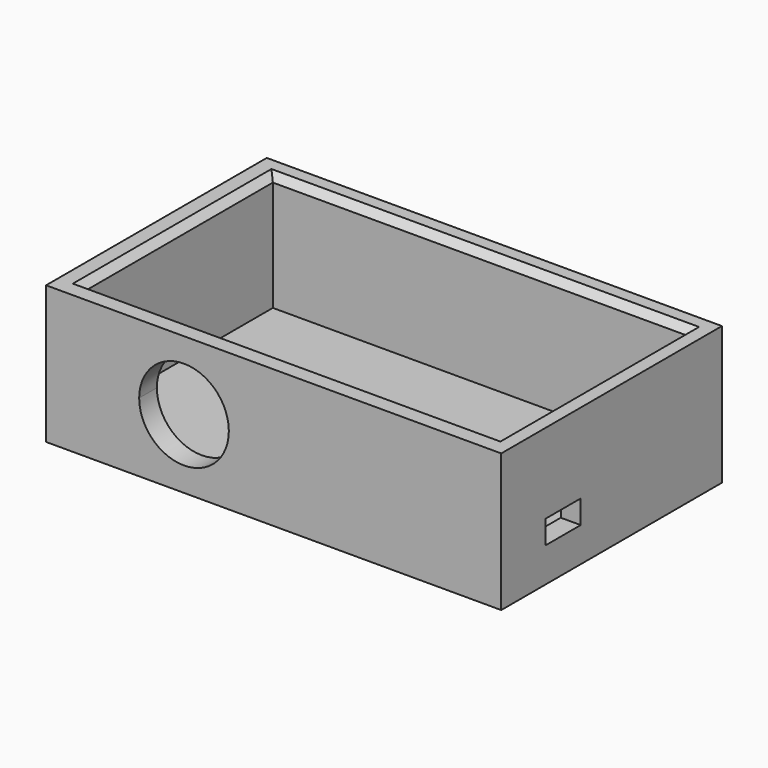
from build123d import *

# Parameters (mm, degrees)
F0_W      = 83.82
F0_H      = 50.8
F1_DEPTH  = 3.81
F2_W      = 83.82
F2_H      = 50.8
F2_W_2    = 76.2
F2_H_2    = 43.18
F3_DEPTH  = 21.59
F5_DEPTH  = 5.08
F7_DEPTH  = 25.4
F8_SIZE2  = 1.27
F8_SIZE   = 1.27
F9_W      = 8.128
F9_H      = 4.318
F10_DEPTH = 25.4


with BuildPart() as f1:
    # F0 (on Top) → F1 (new body)
    with BuildSketch(Plane.XY):
        with Locations((0.872821, -2.059813)):
            Rectangle(F0_W, F0_H)
    extrude(amount=F1_DEPTH)

    # F2 (on face) → F3 (join)
    with BuildSketch(Plane.XY.offset(3.81)):
        with Locations((0.872821, -2.059813)):
            Rectangle(F2_W, F2_H)
        with Locations((1.016111, -1.792254)):
            Rectangle(F2_W_2, F2_H_2, mode=Mode.SUBTRACT)
    extrude(amount=F3_DEPTH)

    # F4 (on face) → F5 (cut)
    with BuildSketch(Plane.XZ.offset(27.459813)):
        with BuildLine():
            ThreePointArc((-23.892179, 12.7), (-15.637179, 4.445), (-7.382179, 12.7))
            ThreePointArc((-7.382179, 12.7), (-9.800013, 18.537166), (-15.637179, 20.955))
            Line((-15.637179, 20.955), (-15.637179, 12.7))
            Line((-15.637179, 12.7), (-23.892179, 12.7))
        make_face()
        with BuildLine():
            Line((-15.637179, 12.7), (-15.637179, 20.955))
            ThreePointArc((-15.637179, 20.955), (-21.474346, 18.537166), (-23.892179, 12.7))
            Line((-23.892179, 12.7), (-15.637179, 12.7))
        make_face()
    extrude(amount=-F5_DEPTH, mode=Mode.SUBTRACT)

    # F6 (on face) → F7 (cut)
    with BuildSketch(Plane(origin=(-41.037179, 0, 0), x_dir=(0, -1, 0), z_dir=(-1, 0, 0))):
        with BuildLine():
            Line((14.759813, 12.7), (19.204813, 12.7))
            ThreePointArc((19.204813, 12.7), (17.902903, 15.84309), (14.759813, 17.145))
            Line((14.759813, 17.145), (14.759813, 12.7))
        make_face()
        with BuildLine():
            ThreePointArc((14.759813, 17.145), (11.616724, 9.55691), (19.204813, 12.7))
            Line((19.204813, 12.7), (14.759813, 12.7))
            Line((14.759813, 12.7), (14.759813, 17.145))
        make_face()
    extrude(amount=-F7_DEPTH, mode=Mode.SUBTRACT)

    # F8
    f8_edges = [f1.edges().sort_by_distance(p)[0] for p in [
        (1.016111, 19.797746, 25.4),
        (-37.083889, -1.792254, 25.4),
        (1.016111, -23.382254, 25.4),
        (39.116111, -1.792254, 25.4),
    ]]
    chamfer(f8_edges, length=F8_SIZE, length2=F8_SIZE2)

    # F9 (on face) → F10 (cut)
    with BuildSketch(Plane.YZ.offset(42.782821)):
        with Locations((-13.235813, 8.509)):
            Rectangle(F9_W, F9_H)
    extrude(amount=-F10_DEPTH, mode=Mode.SUBTRACT)


solid = f1.part
